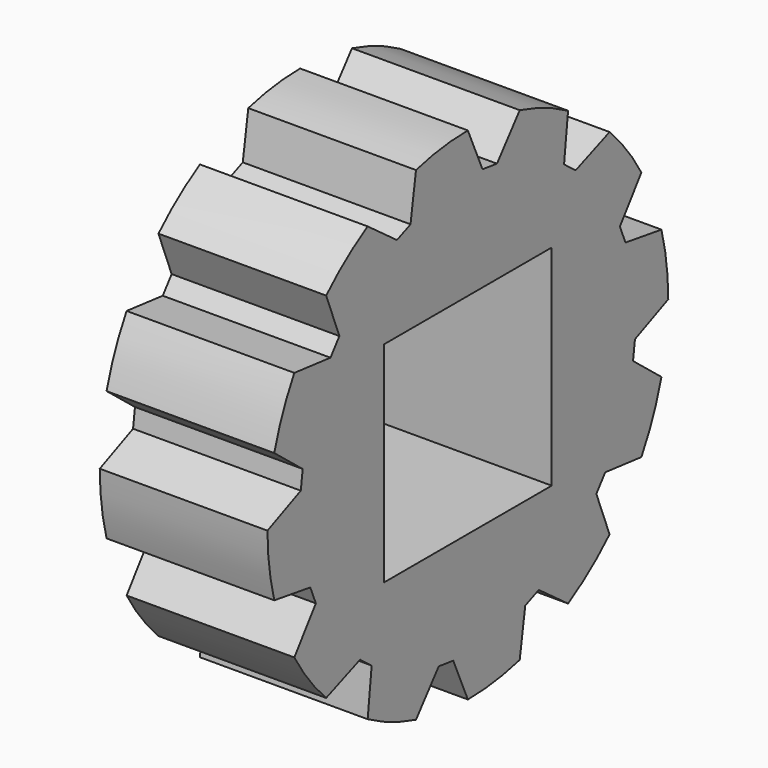
from build123d import *

# Parameters (mm, degrees)
F1_DEPTH = 2.54
F2_W     = 3.175
F2_H     = 3.175
F3_DEPTH = 25.4


with BuildPart() as f1:
    # F0 (on Right) → F1 (new body)
    with BuildSketch(Plane.YZ):
        with BuildLine():
            Line((-3.664269, 0.981838), (0, 0))
            Line((0, 0), (-3.79353, 0))
            ThreePointArc((-3.79353, 0), (-3.761076, -0.495155), (-3.664269, -0.981838))
            Line((-3.664269, -0.981838), (-2.983524, -1.085914))
            Line((-2.983524, -1.085914), (-2.877527, -1.341813))
            Line((-2.877527, -1.341813), (-3.285294, -1.896765))
            ThreePointArc((-3.285294, -1.896765), (-3.00961, -2.309355), (-2.682431, -2.682431))
            Line((-2.682431, -2.682431), (-2.040851, -2.432191))
            Line((-2.040851, -2.432191), (-1.821105, -2.600808))
            Line((-1.821105, -2.600808), (-1.896765, -3.285294))
            ThreePointArc((-1.896765, -3.285294), (-1.451721, -3.504765), (-0.981838, -3.664269))
            Line((-0.981838, -3.664269), (-0.551333, -3.126765))
            Line((-0.551333, -3.126765), (-0.276719, -3.162918))
            Line((-0.276719, -3.162918), (0, -3.79353))
            ThreePointArc((0, -3.79353), (0.495155, -3.761076), (0.981838, -3.664269))
            Line((0.981838, -3.664269), (1.085914, -2.983524))
            Line((1.085914, -2.983524), (1.341813, -2.877527))
            Line((1.341813, -2.877527), (1.896765, -3.285294))
            ThreePointArc((1.896765, -3.285294), (2.309355, -3.00961), (2.682431, -2.682431))
            Line((2.682431, -2.682431), (2.432191, -2.040851))
            Line((2.432191, -2.040851), (2.600808, -1.821105))
            Line((2.600808, -1.821105), (3.285294, -1.896765))
            ThreePointArc((3.285294, -1.896765), (3.504765, -1.451721), (3.664269, -0.981838))
            Line((3.664269, -0.981838), (3.126765, -0.551333))
            Line((3.126765, -0.551333), (3.162918, -0.276719))
            Line((3.162918, -0.276719), (3.79353, 0))
            ThreePointArc((3.79353, 0), (3.761076, 0.495155), (3.664269, 0.981838))
            Line((3.664269, 0.981838), (2.983524, 1.085914))
            Line((2.983524, 1.085914), (2.877527, 1.341813))
            Line((2.877527, 1.341813), (3.285294, 1.896765))
            ThreePointArc((3.285294, 1.896765), (3.00961, 2.309355), (2.682431, 2.682431))
            Line((2.682431, 2.682431), (2.040851, 2.432191))
            Line((2.040851, 2.432191), (1.821105, 2.600808))
            Line((1.821105, 2.600808), (1.896765, 3.285294))
            ThreePointArc((1.896765, 3.285294), (1.451721, 3.504765), (0.981838, 3.664269))
            Line((0.981838, 3.664269), (0.551333, 3.126765))
            Line((0.551333, 3.126765), (0.276719, 3.162918))
            Line((0.276719, 3.162918), (0, 3.79353))
            ThreePointArc((0, 3.79353), (-0.495155, 3.761076), (-0.981838, 3.664269))
            Line((-0.981838, 3.664269), (-1.085914, 2.983524))
            Line((-1.085914, 2.983524), (-1.341813, 2.877527))
            Line((-1.341813, 2.877527), (-1.896765, 3.285294))
            ThreePointArc((-1.896765, 3.285294), (-2.309355, 3.00961), (-2.682431, 2.682431))
            Line((-2.682431, 2.682431), (-2.432191, 2.040851))
            Line((-2.432191, 2.040851), (-2.600808, 1.821105))
            Line((-2.600808, 1.821105), (-3.285294, 1.896765))
            ThreePointArc((-3.285294, 1.896765), (-3.504765, 1.451721), (-3.664269, 0.981838))
        make_face()
        Polygon((-3.79353, 0), (0, 0), (-3.162918, 0.276719), align=None)
        Polygon((-3.162918, 0.276719), (0, 0), (-3.126765, 0.551333), align=None)
        Polygon((-3.126765, 0.551333), (0, 0), (-3.664269, 0.981838), align=None)
    extrude(amount=F1_DEPTH)

    # F2 (on face) → F3 (cut)
    with BuildSketch(Plane.YZ.offset(2.54)):
        Rectangle(F2_W, F2_H)
    extrude(amount=-F3_DEPTH, mode=Mode.SUBTRACT)


solid = f1.part
